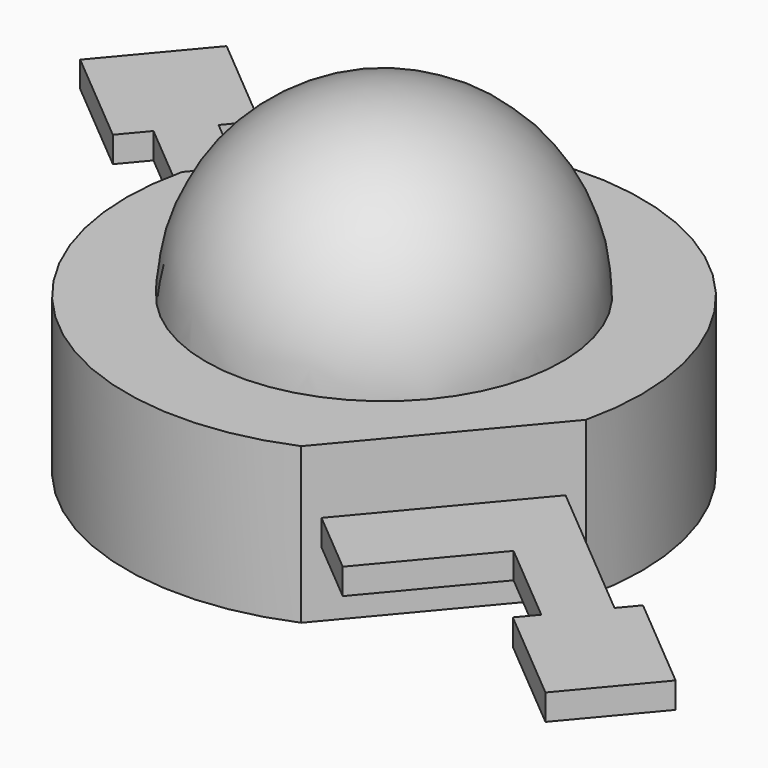
from build123d import *

# Parameters (mm, degrees)
REVOLUTION002_ANGLE       = -180
PAD017_DEPTH              = 0.4
BODY015_PLACEMENT_ANGLE   = 180
PAD016_DEPTH              = 2.4
FUSION003_PLACEMENT_ANGLE = 140


with BuildPart() as light002:
    # Sketch027 (on Face1 of ShapeBinder005) → Revolution002 (revolve)
    with BuildSketch(Plane.XY.offset(2.4)):
        with BuildLine():
            ThreePointArc((-2.75, 0), (0, -2.75), (2.75, 0))
            Line((-2.75, 0), (2.75, 0))
        make_face()
    revolve(axis=Axis((-2.75, 0, 2.4), (1, 0, 0)), revolution_arc=REVOLUTION002_ANGLE)


with BuildPart() as body015:
    # Sketch028 (on Face1 of ShapeBinder006) → Pad017 (new body)
    with BuildSketch(Plane(origin=(0, 0, 0), x_dir=(1, 0, 0), z_dir=(0, 0, -1))):
        with BuildLine():
            Line((3.65, 1.5), (6.65, 1.5))
            Line((6.65, 1.5), (6.65, 2))
            Line((6.65, 2), (8.65, 2))
            Line((8.65, 2), (8.65, 0.2))
            Line((8.65, 0.2), (6.65, 0.2))
            Line((6.65, 0.2), (6.65, 0.7))
            Line((6.65, 0.7), (4.45, 0.7))
            Line((4.45, 0.7), (4.45, -0.2))
            ThreePointArc((4.45, -0.2), (3.8, -0.85), (4.45, -1.5))
            Line((4.45, -1.5), (-6.65, -1.5))
            Line((-6.65, -1.5), (-6.65, -1.85))
            Line((-6.65, -1.85), (-8.65, -1.85))
            Line((-8.65, -1.85), (-8.65, -0.25))
            Line((-8.65, -0.25), (-6.65, -0.25))
            Line((-6.65, -0.25), (-6.65, -0.6))
            Line((-6.65, -0.6), (-4.95, -0.6))
            Line((-4.95, -0.6), (-4.95, 1.5))
            Line((-4.95, 1.5), (3.65, 1.5))
        make_face()
    extrude(amount=-PAD017_DEPTH)


with BuildPart() as body015_1:
    # Body015 placement: moved
    add(body015.part.moved(Location((0, 0, 1.4))).rotate(Axis((0, 0, 1.4), (1, 0, 0)), BODY015_PLACEMENT_ANGLE))


with BuildPart() as led3:
    # Sketch026 → Pad016 (new body)
    with BuildSketch(Plane.XY):
        with BuildLine():
            Line((-3.65, 1.75), (-3.65, -1.75))
            ThreePointArc((-3.65, -1.75), (0, -4), (3.65, -1.75))
            Line((3.65, 1.75), (3.65, -1.75))
            ThreePointArc((3.65, 1.75), (0, 4), (-3.65, 1.75))
        make_face()
    extrude(amount=PAD016_DEPTH)

    # Fusion003: union light002, Body015
    add(light002.part)
    add(body015_1.part)


with BuildPart() as led3_1:
    # Fusion003 placement: moved
    add(led3.part.moved(Location((-27, -36.5, -2.8))).rotate(Axis((-27, -36.5, -2.8), (0, 0, 1)), FUSION003_PLACEMENT_ANGLE))


solid = led3_1.part
